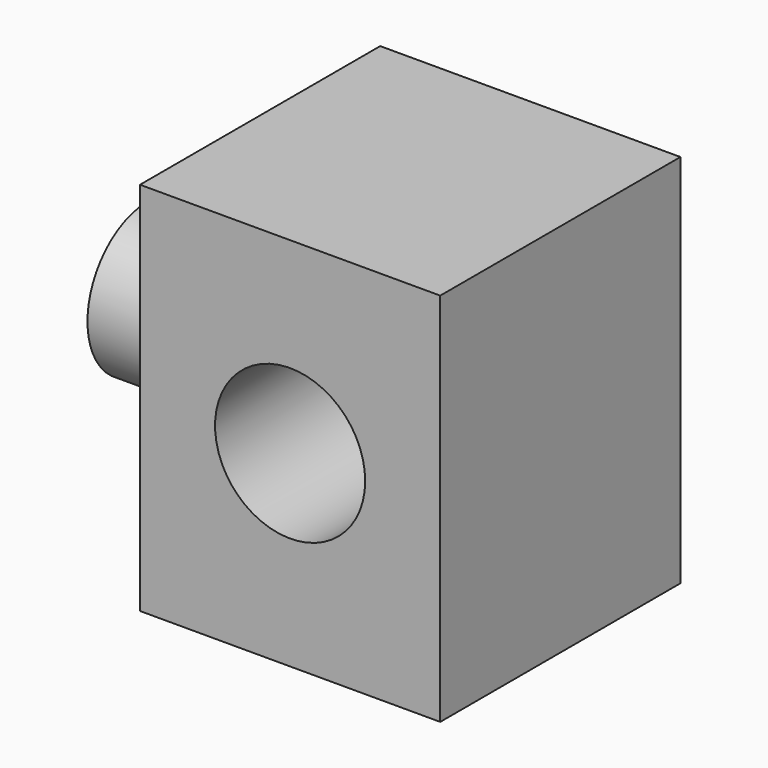
from build123d import *

# Parameters (mm, degrees)
F0_R     = 10
F1_DEPTH = 15
F0_W     = 40
F0_H     = 50
F2_DEPTH = 40
F3_R     = 10
F4_DEPTH = 40.001


with BuildPart() as f1:
    # F0 (on Right) → F1 (new body)
    with BuildSketch(Plane.YZ):
        Circle(F0_R)
    extrude(amount=-F1_DEPTH)

    # F0 (on Right) → F2 (join)
    with BuildSketch(Plane.YZ):
        Rectangle(F0_W, F0_H)
        Circle(F0_R, mode=Mode.SUBTRACT)
        Circle(F0_R)
    extrude(amount=F2_DEPTH)

    # F3 (on face) → F4 (cut, through all)
    with BuildSketch(Plane.XZ.offset(20)):
        with Locations((20, 0)):
            Circle(F3_R)
    extrude(amount=-F4_DEPTH, mode=Mode.SUBTRACT)


solid = f1.part
